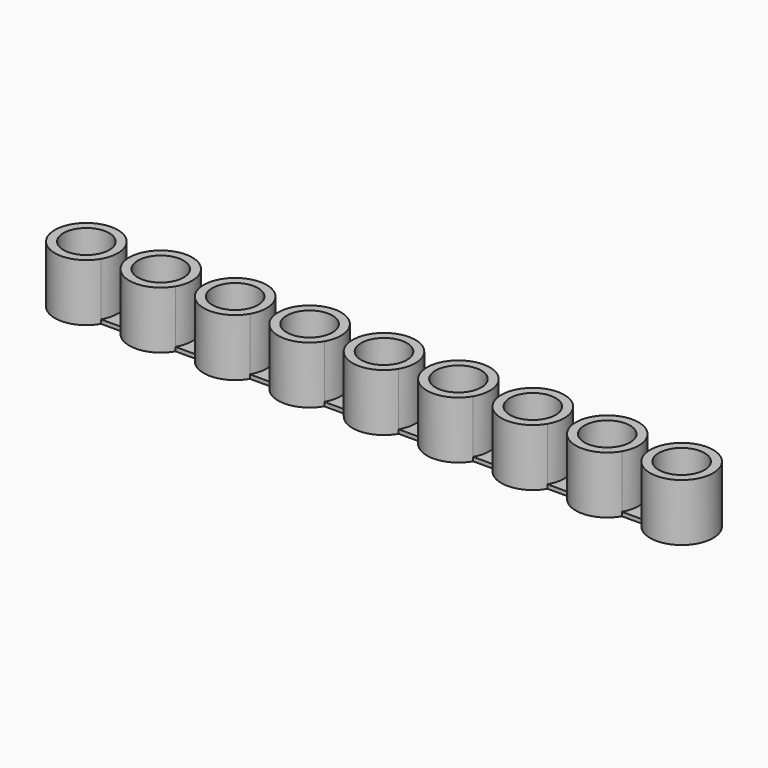
from build123d import *

# Parameters (mm, degrees)
SKETCH_R     = 2
PAD_DEPTH    = 5
POCKET_DEPTH = 4.65


with BuildPart() as part:
    # Sketch → Pad (new body)
    with BuildSketch(Plane.XY):
        with BuildLine():
            ThreePointArc((49.61843, -1.375), (54.75, 0), (49.61843, 1.375))
            Line((47.88157, 1.375), (49.61843, 1.375))
            ThreePointArc((47.88157, 1.375), (45.5, 2.75), (43.11843, 1.375))
            Line((43.11843, 1.375), (41.38157, 1.375))
            ThreePointArc((41.38157, 1.375), (39, 2.75), (36.61843, 1.375))
            Line((36.61843, 1.375), (34.88157, 1.375))
            ThreePointArc((34.88157, 1.375), (32.5, 2.75), (30.11843, 1.375))
            Line((30.11843, 1.375), (28.38157, 1.375))
            ThreePointArc((28.38157, 1.375), (26, 2.75), (23.61843, 1.375))
            Line((23.61843, 1.375), (21.88157, 1.375))
            ThreePointArc((21.88157, 1.375), (19.5, 2.75), (17.11843, 1.375))
            Line((17.11843, 1.375), (15.38157, 1.375))
            ThreePointArc((15.38157, 1.375), (13, 2.75), (10.61843, 1.375))
            Line((10.61843, 1.375), (8.88157, 1.375))
            ThreePointArc((8.88157, 1.375), (6.5, 2.75), (4.11843, 1.375))
            Line((4.11843, 1.375), (2.38157, 1.375))
            ThreePointArc((2.38157, 1.375), (-2.75, 0), (2.38157, -1.375))
            Line((2.38157, -1.375), (4.11843, -1.375))
            ThreePointArc((4.11843, -1.375), (6.5, -2.75), (8.88157, -1.375))
            Line((8.88157, -1.375), (10.61843, -1.375))
            ThreePointArc((10.61843, -1.375), (13, -2.75), (15.38157, -1.375))
            Line((15.38157, -1.375), (17.11843, -1.375))
            ThreePointArc((17.11843, -1.375), (19.5, -2.75), (21.88157, -1.375))
            Line((21.88157, -1.375), (23.61843, -1.375))
            ThreePointArc((23.61843, -1.375), (26, -2.75), (28.38157, -1.375))
            Line((28.38157, -1.375), (30.11843, -1.375))
            ThreePointArc((30.11843, -1.375), (32.5, -2.75), (34.88157, -1.375))
            Line((34.88157, -1.375), (36.61843, -1.375))
            ThreePointArc((36.61843, -1.375), (39, -2.75), (41.38157, -1.375))
            Line((41.38157, -1.375), (43.11843, -1.375))
            ThreePointArc((43.11843, -1.375), (45.5, -2.75), (47.88157, -1.375))
            Line((49.61843, -1.375), (47.88157, -1.375))
        make_face()
        Circle(SKETCH_R, mode=Mode.SUBTRACT)
        with Locations((6.5, 0)):
            Circle(SKETCH_R, mode=Mode.SUBTRACT)
        with Locations((13, 0)):
            Circle(SKETCH_R, mode=Mode.SUBTRACT)
        with Locations((19.5, 0)):
            Circle(SKETCH_R, mode=Mode.SUBTRACT)
        with Locations((26, 0)):
            Circle(SKETCH_R, mode=Mode.SUBTRACT)
        with Locations((32.5, 0)):
            Circle(SKETCH_R, mode=Mode.SUBTRACT)
        with Locations((39, 0)):
            Circle(SKETCH_R, mode=Mode.SUBTRACT)
        with Locations((45.5, 0)):
            Circle(SKETCH_R, mode=Mode.SUBTRACT)
        with Locations((52, 0)):
            Circle(SKETCH_R, mode=Mode.SUBTRACT)
    extrude(amount=PAD_DEPTH)

    # Sketch001 (on Face43 of Pad) → Pocket (cut)
    with BuildSketch(Plane.XY.offset(5)):
        with BuildLine():
            ThreePointArc((2.38157, -1.375), (2.75, 0), (2.38157, 1.375))
            Line((2.38157, 1.375), (4.11843, 1.375))
            ThreePointArc((4.11843, 1.375), (3.75, 0), (4.11843, -1.375))
            Line((4.11843, -1.375), (2.38157, -1.375))
        make_face()
        with BuildLine():
            ThreePointArc((8.88157, -1.375), (9.25, 0), (8.88157, 1.375))
            Line((8.88157, 1.375), (10.61843, 1.375))
            ThreePointArc((10.61843, 1.375), (10.25, 0), (10.61843, -1.375))
            Line((10.61843, -1.375), (8.88157, -1.375))
        make_face()
        with BuildLine():
            ThreePointArc((15.38157, -1.375), (15.75, 0), (15.38157, 1.375))
            Line((15.38157, 1.375), (17.11843, 1.375))
            ThreePointArc((17.11843, 1.375), (16.75, 0), (17.11843, -1.375))
            Line((17.11843, -1.375), (15.38157, -1.375))
        make_face()
        with BuildLine():
            ThreePointArc((23.61843, 1.375), (23.25, 0), (23.61843, -1.375))
            Line((23.61843, -1.375), (21.88157, -1.375))
            ThreePointArc((21.88157, -1.375), (22.25, 0), (21.88157, 1.375))
            Line((21.88157, 1.375), (23.61843, 1.375))
        make_face()
        with BuildLine():
            ThreePointArc((28.38157, -1.375), (28.75, 0), (28.38157, 1.375))
            Line((28.38157, 1.375), (30.11843, 1.375))
            ThreePointArc((30.11843, 1.375), (29.75, 0), (30.11843, -1.375))
            Line((30.11843, -1.375), (28.38157, -1.375))
        make_face()
        with BuildLine():
            ThreePointArc((34.88157, -1.375), (35.25, 0), (34.88157, 1.375))
            Line((34.88157, 1.375), (36.61843, 1.375))
            ThreePointArc((36.61843, 1.375), (36.25, 0), (36.61843, -1.375))
            Line((36.61843, -1.375), (34.88157, -1.375))
        make_face()
        with BuildLine():
            ThreePointArc((41.38157, -1.375), (41.75, 0), (41.38157, 1.375))
            Line((41.38157, 1.375), (43.11843, 1.375))
            ThreePointArc((43.11843, 1.375), (42.75, 0), (43.11843, -1.375))
            Line((43.11843, -1.375), (41.38157, -1.375))
        make_face()
        with BuildLine():
            ThreePointArc((47.88157, -1.375), (48.25, 0), (47.88157, 1.375))
            Line((47.88157, 1.375), (49.61843, 1.375))
            ThreePointArc((49.61843, 1.375), (49.25, 0), (49.61843, -1.375))
            Line((49.61843, -1.375), (47.88157, -1.375))
        make_face()
    extrude(amount=-POCKET_DEPTH, mode=Mode.SUBTRACT)


solid = part.part
